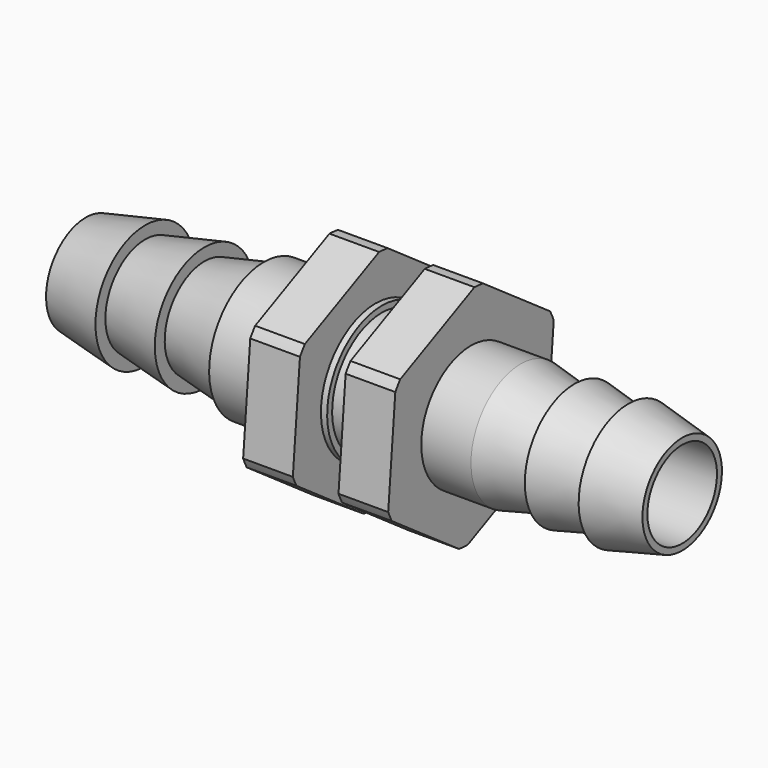
from build123d import *

# Parameters (mm, degrees)
F2_R     = 19.00963
F3_DEPTH = 50.9


with BuildPart() as f1:
    # F0 (on Front) → F1 (revolve)
    with BuildSketch(Plane.XZ):
        Polygon((-48, 4), (-48, 3.5), (0, 3.5), (0, 4), (-4.333333, 5), (-4.333333, 4), (-8.666667, 5), (-8.666667, 4), (-13, 5), (-17, 5), (-17, 9), (-21, 9), (-21, 5), (-24.175, 5), (-24.175, 5.5), (-24.675, 5.5), (-24.675, 9), (-28.675, 9), (-28.675, 5.5), (-33.675, 5.5), (-33.675, 5), (-38.45, 4), (-38.45, 5), (-43.225, 4), (-43.225, 5), align=None)
    revolve(axis=Axis((-24, 0, 0), (-1, 0, 0)))

    # F2 (on Right) → F3 (cut)
    with BuildSketch(Plane.YZ):
        Circle(F2_R)
        Polygon((0.801815, 9.20274), (8.370714, 3.906978), (7.568899, -5.295762), (-0.801815, -9.20274), (-8.370714, -3.906978), (-7.568899, 5.295762), align=None, mode=Mode.SUBTRACT)
    extrude(amount=-F3_DEPTH, mode=Mode.SUBTRACT)


solid = f1.part
